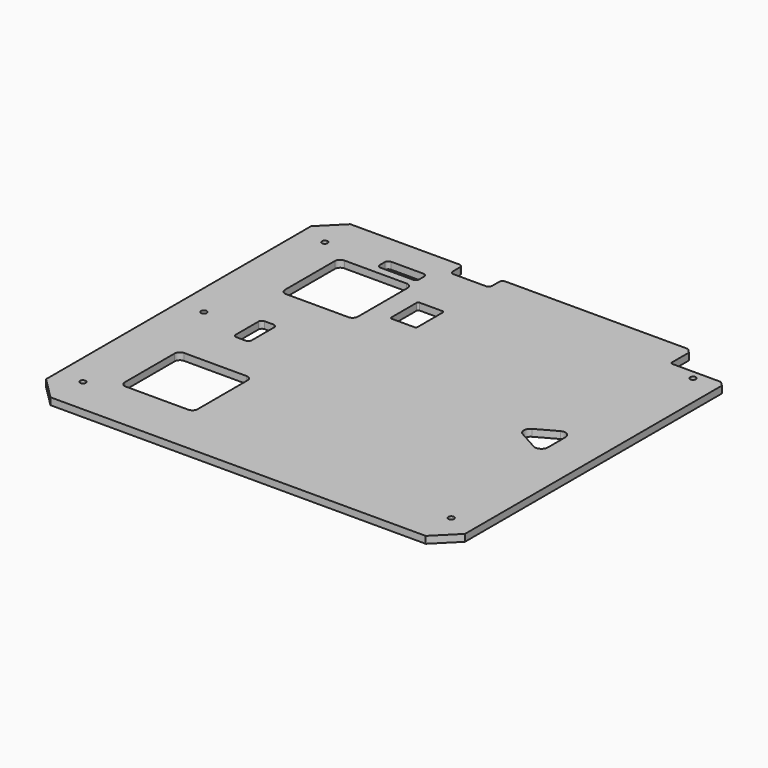
from build123d import *

# Parameters (mm, degrees)
SKETCH_W        = 480
SKETCH_H        = 429.5
PAD_DEPTH       = 8
CHAMFER_SIZE    = 25
SKETCH001_R     = 3.25
SKETCH001_W     = 63
SKETCH001_H     = 31.5
SKETCH001_W_2   = 83.5
SKETCH001_H_2   = 83.5
SKETCH001_W_3   = 18
SKETCH001_H_3   = 40
SKETCH001_W_4   = 45
SKETCH001_H_4   = 15
SKETCH001_W_5   = 30
POCKET_DEPTH    = 8.001
CHAMFER001_SIZE = 5
FILLET_R        = 2
FILLET001_R     = 2
FILLET002_R     = 6
FILLET003_R     = 4
FILLET004_R     = 4
SKETCH002_W     = 45
SKETCH002_H     = 18
POCKET001_DEPTH = 8.001
FILLET005_R     = 4


with BuildPart() as part:
    # Sketch → Pad (new body)
    with BuildSketch(Plane.XY):
        Rectangle(SKETCH_W, SKETCH_H)
    extrude(amount=PAD_DEPTH)

    # Chamfer
    chamfer_edges = [part.edges().sort_by_distance(p)[0] for p in [
        (-240, 214.75, 4),
        (-240, -214.75, 4),
        (240, -214.75, 4),
    ]]
    chamfer(chamfer_edges, length=CHAMFER_SIZE)

    # Sketch001 → Pocket (cut, through all)
    with BuildSketch(Plane(origin=(0, 0, 0), x_dir=(1, 0, 0), z_dir=(0, 0, -1))):
        with Locations((-211, 0)):
            Circle(SKETCH001_R)
        with Locations((-211, 173.25)):
            Circle(SKETCH001_R)
        with Locations((-211, -173.25)):
            Circle(SKETCH001_R)
        with Locations((211, -173.25)):
            Circle(SKETCH001_R)
        with Locations((211, 173.25)):
            Circle(SKETCH001_R)
        with Locations((208.5, -199)):
            Rectangle(SKETCH001_W, SKETCH001_H)
        with Locations((-139.5, -114.75)):
            Rectangle(SKETCH001_W_2, SKETCH001_H_2)
        with Locations((-139.5, 114.75)):
            Rectangle(SKETCH001_W_2, SKETCH001_H_2)
        with Locations((-152.3, 0)):
            Rectangle(SKETCH001_W_3, SKETCH001_H_3)
        with Locations((-122.5, -173.25)):
            Rectangle(SKETCH001_W_4, SKETCH001_H_4)
        with Locations((-58.5, -114.75)):
            Rectangle(SKETCH001_W_5, SKETCH001_H_3)
        with BuildLine():
            Line((193.25, 12.5), (193.25, -12.5))
            ThreePointArc((182.108205, -19.056447), (189.553707, -18.96386), (193.25, -12.5))
            Line((182.108205, -19.056447), (159.603991, -6.556472))
            ThreePointArc((159.603991, 6.556472), (155.745785, 0), (159.603991, -6.556472))
            Line((182.108205, 19.056447), (159.603991, 6.556472))
            ThreePointArc((193.25, 12.5), (189.553707, 18.96386), (182.108205, 19.056447))
        make_face()
    extrude(amount=-POCKET_DEPTH, mode=Mode.SUBTRACT)

    # Chamfer001
    chamfer001_edges = [part.edges().sort_by_distance(p)[0] for p in [
        (177, 214.75, 4),
        (240, 183.25, 4),
    ]]
    chamfer(chamfer001_edges, length=CHAMFER001_SIZE)

    # Fillet
    fillet_edges = [part.edges().sort_by_distance(p)[0] for p in [
        (177, 183.25, 4),
    ]]
    fillet(fillet_edges, radius=FILLET_R)

    # Fillet001
    fillet001_edges = [part.edges().sort_by_distance(p)[0] for p in [
        (-73.5, 94.75, 4),
        (-73.5, 134.75, 4),
        (-43.5, 134.75, 4),
        (-43.5, 94.75, 4),
    ]]
    fillet(fillet001_edges, radius=FILLET001_R)

    # Fillet002
    fillet002_edges = [part.edges().sort_by_distance(p)[0] for p in [
        (-97.75, 73, 4),
        (-181.25, 73, 4),
        (-181.25, 156.5, 4),
        (-97.75, 156.5, 4),
        (-97.75, -73, 4),
        (-181.25, -156.5, 4),
        (-97.75, -156.5, 4),
        (-181.25, -73, 4),
    ]]
    fillet(fillet002_edges, radius=FILLET002_R)

    # Fillet003
    fillet003_edges = [part.edges().sort_by_distance(p)[0] for p in [
        (-161.3, 20, 4),
        (-143.3, 20, 4),
        (-143.3, -20, 4),
        (-161.3, -20, 4),
    ]]
    fillet(fillet003_edges, radius=FILLET003_R)

    # Fillet004
    fillet004_edges = [part.edges().sort_by_distance(p)[0] for p in [
        (-145, 180.75, 4),
        (-100, 180.75, 4),
        (-100, 165.75, 4),
        (-145, 165.75, 4),
    ]]
    fillet(fillet004_edges, radius=FILLET004_R)

    # Sketch002 → Pocket001 (cut, through all)
    with BuildSketch(Plane(origin=(0, 0, 0), x_dir=(1, 0, 0), z_dir=(0, 0, -1))):
        with Locations((-63.75, -205.75)):
            Rectangle(SKETCH002_W, SKETCH002_H)
    extrude(amount=-POCKET001_DEPTH, mode=Mode.SUBTRACT)

    # Fillet005
    fillet005_edges = [part.edges().sort_by_distance(p)[0] for p in [
        (-41.25, 214.75, 4),
        (-41.25, 196.75, 4),
        (-86.25, 214.75, 4),
        (-86.25, 196.75, 4),
    ]]
    fillet(fillet005_edges, radius=FILLET005_R)


solid = part.part
